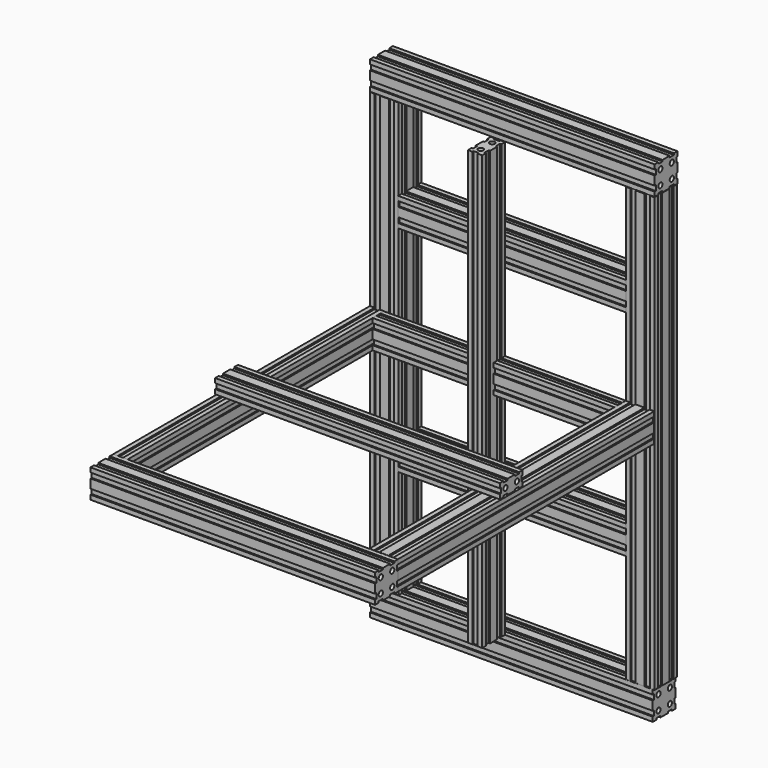
from build123d import *

# Parameters (mm, degrees)
F0_R           = 3.683
F1_DEPTH       = 450.088
F2_R           = 3.683
F3_DEPTH       = 400.05
F4_R           = 3.683
F5_DEPTH       = 450.85
F6_R           = 3.683
F7_DEPTH       = 339.598
F8_R           = 3.683
F9_DEPTH       = 304.8
F9_DEPTH_BACK  = 304.8
F10_R          = 3.683
F11_DEPTH      = 304.8
F11_DEPTH_BACK = 304.8
F12_R          = 3.683
F13_DEPTH      = 400.05
F14_R          = 3.683
F15_DEPTH      = 397.51
F16_R          = 3.683
F17_DEPTH      = 304.8
F17_DEPTH_BACK = 304.8
F18_R          = 3.683
F19_DEPTH      = 400.05
F20_R          = 3.683
F21_DEPTH      = 320.04
F22_R          = 3.683
F23_DEPTH      = 320.04


with BuildPart() as f1:
    # F0 (on Front) → F1 (new body)
    with BuildSketch(Plane.XZ):
        Polygon((-6.35, 18.034), (-13.716, 18.034), (-13.716, 20.066), (-20.066, 20.066), (-20.066, 13.716), (-18.034, 13.716), (-18.034, 6.35), (-20.066, 6.35), (-20.066, 0), (-20.066, -6.35), (-18.034, -6.35), (-18.034, -13.716), (-20.066, -13.716), (-20.066, -20.066), (-13.716, -20.066), (-13.716, -18.034), (-6.35, -18.034), (-6.35, -20.066), (0, -20.066), (6.35, -20.066), (6.35, -18.034), (13.716, -18.034), (13.716, -20.066), (20.066, -20.066), (20.066, -13.716), (18.034, -13.716), (18.034, -6.35), (20.066, -6.35), (20.066, 0), (20.066, 6.35), (18.034, 6.35), (18.034, 13.716), (20.066, 13.716), (20.066, 20.066), (13.716, 20.066), (13.716, 18.034), (6.35, 18.034), (6.35, 20.066), (0, 20.066), (-6.35, 20.066), align=None)
        with Locations((-10.033, -10.033)):
            Circle(F0_R, mode=Mode.SUBTRACT)
        with Locations((10.033, -10.033)):
            Circle(F0_R, mode=Mode.SUBTRACT)
        with Locations((-10.033, 10.033)):
            Circle(F0_R, mode=Mode.SUBTRACT)
        with Locations((10.033, 10.033)):
            Circle(F0_R, mode=Mode.SUBTRACT)
    extrude(amount=F1_DEPTH)


with BuildPart() as f3:
    # F2 (on face) → F3 (new body)
    with BuildSketch(Plane.YZ.offset(20.066)):
        Polygon((-476.706279, 17.926491), (-484.072279, 17.926491), (-484.072279, 19.958491), (-490.422279, 19.958491), (-490.422279, 13.608491), (-488.390279, 13.608491), (-488.390279, 6.242491), (-490.422279, 6.242491), (-490.422279, -0.107509), (-490.422279, -6.457509), (-488.390279, -6.457509), (-488.390279, -13.823509), (-490.422279, -13.823509), (-490.422279, -20.173509), (-484.072279, -20.173509), (-484.072279, -18.141509), (-476.706279, -18.141509), (-476.706279, -20.173509), (-470.356279, -20.173509), (-464.006279, -20.173509), (-464.006279, -18.141509), (-456.640279, -18.141509), (-456.640279, -20.173509), (-450.290279, -20.173509), (-450.290279, -13.823509), (-452.322279, -13.823509), (-452.322279, -6.457509), (-450.290279, -6.457509), (-450.290279, -0.107509), (-450.290279, 6.242491), (-452.322279, 6.242491), (-452.322279, 13.608491), (-450.290279, 13.608491), (-450.290279, 19.958491), (-456.640279, 19.958491), (-456.640279, 17.926491), (-464.006279, 17.926491), (-464.006279, 19.958491), (-470.356279, 19.958491), (-476.706279, 19.958491), align=None)
        with Locations((-480.389279, -10.140509)):
            Circle(F2_R, mode=Mode.SUBTRACT)
        with Locations((-460.323279, -10.140509)):
            Circle(F2_R, mode=Mode.SUBTRACT)
        with Locations((-480.389279, 9.925491)):
            Circle(F2_R, mode=Mode.SUBTRACT)
        with Locations((-460.323279, 9.925491)):
            Circle(F2_R, mode=Mode.SUBTRACT)
    extrude(amount=-F3_DEPTH)


with BuildPart() as f5:
    # F4 (on face) → F5 (new body)
    with BuildSketch(Plane(origin=(0, -450.290279, 0), x_dir=(-1, 0, 0), z_dir=(0, 1, 0))):
        Polygon((373.604226, 17.952326), (366.238226, 17.952326), (366.238226, 19.984326), (359.888226, 19.984326), (359.888226, 13.634326), (361.920226, 13.634326), (361.920226, 6.268326), (359.888226, 6.268326), (359.888226, 6.242491), (377.326638, 6.242491), (377.326638, 13.547446), (379.954226, 13.547446), (379.954226, 19.984326), (373.604226, 19.984326), align=None)
        with Locations((369.921226, 9.951326)):
            Circle(F4_R, mode=Mode.SUBTRACT)
        with BuildLine():
            Line((379.984, 6.242491), (377.326638, 6.242491))
            Line((377.326638, 6.242491), (359.888226, 6.242491))
            Line((359.888226, 6.242491), (359.888226, -0.081674))
            Line((359.888226, -0.081674), (359.888226, -6.431674))
            Line((359.888226, -6.431674), (361.920226, -6.431674))
            Line((361.920226, -6.431674), (361.920226, -6.457509))
            Line((361.920226, -6.457509), (369.485758, -6.457509))
            ThreePointArc((369.485758, -6.457509), (369.921226, -6.431674), (370.356694, -6.457509))
            Line((370.356694, -6.457509), (377.326638, -6.457509))
            Line((377.326638, -6.457509), (379.984, -6.457509))
            Line((379.984, -6.457509), (379.984, 6.242491))
        make_face()
        with BuildLine():
            Line((377.326638, -13.786256), (377.326638, -6.457509))
            Line((377.326638, -6.457509), (370.356694, -6.457509))
            ThreePointArc((370.356694, -6.457509), (372.675161, -7.669202), (373.604226, -10.114674))
            ThreePointArc((373.604226, -10.114674), (367.475754, -12.868609), (369.485758, -6.457509))
            Line((369.485758, -6.457509), (361.920226, -6.457509))
            Line((361.920226, -6.457509), (361.920226, -13.797674))
            Line((361.920226, -13.797674), (359.888226, -13.797674))
            Line((359.888226, -13.797674), (359.888226, -20.147674))
            Line((359.888226, -20.147674), (366.238226, -20.147674))
            Line((366.238226, -20.147674), (366.238226, -18.115674))
            Line((366.238226, -18.115674), (373.604226, -18.115674))
            Line((373.604226, -18.115674), (373.604226, -20.147674))
            Line((373.604226, -20.147674), (379.954226, -20.147674))
            Line((379.954226, -20.147674), (379.984, -13.786256))
            Line((379.984, -13.786256), (377.326638, -13.786256))
        make_face()
    extrude(amount=F5_DEPTH)


with BuildPart() as f7:
    # F6 (on face) → F7 (new body)
    with BuildSketch(Plane(origin=(-20.066, 0, 0), x_dir=(0, -1, 0), z_dir=(-1, 0, 0))):
        with BuildLine():
            Line((20.058718, 6.35), (2.394034, 6.35))
            Line((2.394034, 6.35), (0, 6.35))
            Line((0, 6.35), (0, -6.35))
            Line((0, -6.35), (2.394034, -6.35))
            Line((2.394034, -6.35), (9.003836, -6.35))
            ThreePointArc((9.003836, -6.35), (10.025718, -6.205396), (11.0476, -6.35))
            Line((11.0476, -6.35), (18.026718, -6.35))
            Line((18.026718, -6.35), (18.026718, -6.205396))
            Line((18.026718, -6.205396), (20.058718, -6.205396))
            Line((20.058718, -6.205396), (20.058718, 0.144604))
            Line((20.058718, 0.144604), (20.058718, 6.35))
        make_face()
        Polygon((6.342718, 20.210604), (-0.007282, 20.210604), (-0.007282, 13.860604), (2.394034, 13.860604), (2.394034, 6.35), (20.058718, 6.35), (20.058718, 6.494604), (18.026718, 6.494604), (18.026718, 13.860604), (20.058718, 13.860604), (20.058718, 20.210604), (13.708718, 20.210604), (13.708718, 18.178604), (6.342718, 18.178604), align=None)
        with Locations((10.025718, 10.177604)):
            Circle(F6_R, mode=Mode.SUBTRACT)
        with BuildLine():
            Line((9.003836, -6.35), (2.394034, -6.35))
            Line((2.394034, -6.35), (2.394034, -13.571396))
            Line((2.394034, -13.571396), (-0.007282, -13.571396))
            Line((-0.007282, -13.571396), (-0.007282, -19.921396))
            Line((-0.007282, -19.921396), (6.342718, -19.921396))
            Line((6.342718, -19.921396), (6.342718, -17.889396))
            Line((6.342718, -17.889396), (13.708718, -17.889396))
            Line((13.708718, -17.889396), (13.708718, -19.921396))
            Line((13.708718, -19.921396), (20.058718, -19.921396))
            Line((20.058718, -19.921396), (20.058718, -13.571396))
            Line((20.058718, -13.571396), (18.026718, -13.571396))
            Line((18.026718, -13.571396), (18.026718, -6.35))
            Line((18.026718, -6.35), (11.0476, -6.35))
            ThreePointArc((11.0476, -6.35), (12.969192, -7.6747), (13.708718, -9.888396))
            ThreePointArc((13.708718, -9.888396), (7.812022, -12.83187), (9.003836, -6.35))
        make_face()
    extrude(amount=F7_DEPTH)


with BuildPart() as f9:
    # F8 (on face) → F9 (new body, two sides)
    with BuildSketch(Plane(origin=(0, 0, -20.066), x_dir=(1, 0, 0), z_dir=(0, 0, -1))) as f9_sk:
        Polygon((-6.172723, -2.109748), (-13.538723, -2.109748), (-13.538723, -0.077748), (-19.888723, -0.077748), (-19.888723, -6.427748), (-17.856723, -6.427748), (-17.856723, -13.793748), (-19.888723, -13.793748), (-19.888723, -20.143748), (-19.888723, -26.493748), (-17.856723, -26.493748), (-17.856723, -33.859748), (-19.888723, -33.859748), (-19.888723, -40.209748), (-13.538723, -40.209748), (-13.538723, -38.177748), (-6.172723, -38.177748), (-6.172723, -40.209748), (0.177277, -40.209748), (6.527277, -40.209748), (6.527277, -38.177748), (13.893277, -38.177748), (13.893277, -40.209748), (20.243277, -40.209748), (20.243277, -33.859748), (18.211277, -33.859748), (18.211277, -26.493748), (20.243277, -26.493748), (20.243277, -20.143748), (20.243277, -13.793748), (18.211277, -13.793748), (18.211277, -6.427748), (20.243277, -6.427748), (20.243277, -0.077748), (13.893277, -0.077748), (13.893277, -2.109748), (6.527277, -2.109748), (6.527277, -0.077748), (0.177277, -0.077748), (-6.172723, -0.077748), align=None)
        with Locations((-9.855723, -30.176748)):
            Circle(F8_R, mode=Mode.SUBTRACT)
        with Locations((-9.855723, -10.110748)):
            Circle(F8_R, mode=Mode.SUBTRACT)
        with Locations((10.210277, -30.176748)):
            Circle(F8_R, mode=Mode.SUBTRACT)
        with Locations((10.210277, -10.110748)):
            Circle(F8_R, mode=Mode.SUBTRACT)
    extrude(amount=F9_DEPTH)
    extrude(f9_sk.sketch, amount=-F9_DEPTH_BACK)


with BuildPart() as f11:
    # F10 (on face) → F11 (new body, two sides)
    with BuildSketch(Plane(origin=(0, 0, -20.147674), x_dir=(1, 0, 0), z_dir=(0, 0, -1))) as f11_sk:
        Polygon((-366.280479, -2.748188), (-373.646479, -2.748188), (-373.646479, -0.716188), (-379.996479, -0.716188), (-379.996479, -7.066188), (-377.964479, -7.066188), (-377.964479, -14.432188), (-379.996479, -14.432188), (-379.996479, -20.782188), (-379.996479, -27.132188), (-377.964479, -27.132188), (-377.964479, -34.498188), (-379.996479, -34.498188), (-379.996479, -40.848188), (-373.646479, -40.848188), (-373.646479, -38.816188), (-366.280479, -38.816188), (-366.280479, -40.848188), (-359.930479, -40.848188), (-353.580479, -40.848188), (-353.580479, -38.816188), (-346.214479, -38.816188), (-346.214479, -40.848188), (-339.864479, -40.848188), (-339.864479, -34.498188), (-341.896479, -34.498188), (-341.896479, -27.132188), (-339.864479, -27.132188), (-339.864479, -20.782188), (-339.864479, -14.432188), (-341.896479, -14.432188), (-341.896479, -7.066188), (-339.864479, -7.066188), (-339.864479, -0.716188), (-346.214479, -0.716188), (-346.214479, -2.748188), (-353.580479, -2.748188), (-353.580479, -0.716188), (-359.930479, -0.716188), (-366.280479, -0.716188), align=None)
        with Locations((-369.963479, -30.815188)):
            Circle(F10_R, mode=Mode.SUBTRACT)
        with Locations((-369.963479, -10.749188)):
            Circle(F10_R, mode=Mode.SUBTRACT)
        with Locations((-349.897479, -30.815188)):
            Circle(F10_R, mode=Mode.SUBTRACT)
        with Locations((-349.897479, -10.749188)):
            Circle(F10_R, mode=Mode.SUBTRACT)
    extrude(amount=F11_DEPTH)
    extrude(f11_sk.sketch, amount=-F11_DEPTH_BACK)


with BuildPart() as f13:
    # F12 (on face) → F13 (new body)
    with BuildSketch(Plane(origin=(-379.996479, 0, 0), x_dir=(0, -1, 0), z_dir=(-1, 0, 0))):
        Polygon((-27.23115, 323.158051), (-34.59715, 323.158051), (-34.59715, 325.190051), (-40.94715, 325.190051), (-40.94715, 318.840051), (-38.91515, 318.840051), (-38.91515, 311.474051), (-40.94715, 311.474051), (-40.94715, 305.124051), (-40.94715, 298.774051), (-38.91515, 298.774051), (-38.91515, 291.408051), (-40.94715, 291.408051), (-40.94715, 285.058051), (-34.59715, 285.058051), (-34.59715, 287.090051), (-27.23115, 287.090051), (-27.23115, 285.058051), (-20.88115, 285.058051), (-14.53115, 285.058051), (-14.53115, 287.090051), (-7.16515, 287.090051), (-7.16515, 285.058051), (-0.81515, 285.058051), (-0.81515, 291.408051), (-2.84715, 291.408051), (-2.84715, 298.774051), (-0.81515, 298.774051), (-0.81515, 305.124051), (-0.81515, 311.474051), (-2.84715, 311.474051), (-2.84715, 318.840051), (-0.81515, 318.840051), (-0.81515, 325.190051), (-7.16515, 325.190051), (-7.16515, 323.158051), (-14.53115, 323.158051), (-14.53115, 325.190051), (-20.88115, 325.190051), (-27.23115, 325.190051), align=None)
        with Locations((-30.91415, 295.091051)):
            Circle(F12_R, mode=Mode.SUBTRACT)
        with Locations((-30.91415, 315.157051)):
            Circle(F12_R, mode=Mode.SUBTRACT)
        with Locations((-10.84815, 295.091051)):
            Circle(F12_R, mode=Mode.SUBTRACT)
        with Locations((-10.84815, 315.157051)):
            Circle(F12_R, mode=Mode.SUBTRACT)
    extrude(amount=-F13_DEPTH)


with BuildPart() as f15:
    # F14 (on face) → F15 (new body)
    with BuildSketch(Plane(origin=(-379.996479, 0, 0), x_dir=(0, -1, 0), z_dir=(-1, 0, 0))):
        Polygon((-26.998357, -327.287231), (-34.364357, -327.287231), (-34.364357, -325.255231), (-40.714357, -325.255231), (-40.714357, -331.605231), (-38.682357, -331.605231), (-38.682357, -338.971231), (-40.714357, -338.971231), (-40.714357, -345.321231), (-40.714357, -351.671231), (-38.682357, -351.671231), (-38.682357, -359.037231), (-40.714357, -359.037231), (-40.714357, -365.387231), (-34.364357, -365.387231), (-34.364357, -363.355231), (-26.998357, -363.355231), (-26.998357, -365.387231), (-20.648357, -365.387231), (-14.298357, -365.387231), (-14.298357, -363.355231), (-6.932357, -363.355231), (-6.932357, -365.387231), (-0.582357, -365.387231), (-0.582357, -359.037231), (-2.614357, -359.037231), (-2.614357, -351.671231), (-0.582357, -351.671231), (-0.582357, -345.321231), (-0.582357, -338.971231), (-2.614357, -338.971231), (-2.614357, -331.605231), (-0.582357, -331.605231), (-0.582357, -325.255231), (-6.932357, -325.255231), (-6.932357, -327.287231), (-14.298357, -327.287231), (-14.298357, -325.255231), (-20.648357, -325.255231), (-26.998357, -325.255231), align=None)
        with Locations((-30.681357, -355.354231)):
            Circle(F14_R, mode=Mode.SUBTRACT)
        with Locations((-30.681357, -335.288231)):
            Circle(F14_R, mode=Mode.SUBTRACT)
        with Locations((-10.615357, -355.354231)):
            Circle(F14_R, mode=Mode.SUBTRACT)
        with Locations((-10.615357, -335.288231)):
            Circle(F14_R, mode=Mode.SUBTRACT)
    extrude(amount=-F15_DEPTH)


with BuildPart() as f17:
    # F16 (on face) → F17 (new body, two sides)
    with BuildSketch(Plane(origin=(0, 0, -19.921396), x_dir=(1, 0, 0), z_dir=(0, 0, -1))) as f17_sk:
        Polygon((-199.659061, 38.1), (-203.342061, 38.1), (-203.342061, 40.132), (-209.692061, 40.132), (-209.692061, 33.782), (-207.660061, 33.782), (-207.660061, 26.416), (-209.692061, 26.416), (-209.692061, 20.066), (-209.692061, 20.058718), (-189.626061, 20.058718), (-189.626061, 20.066), (-189.626061, 26.416), (-191.658061, 26.416), (-191.658061, 33.782), (-189.626061, 33.782), (-189.626061, 40.132), (-195.976061, 40.132), (-195.976061, 38.1), align=None)
        with Locations((-199.659061, 30.099)):
            Circle(F16_R, mode=Mode.SUBTRACT)
        with BuildLine():
            Line((-189.626061, 20.058718), (-209.692061, 20.058718))
            Line((-209.692061, 20.058718), (-209.692061, 13.716))
            Line((-209.692061, 13.716), (-207.660061, 13.716))
            Line((-207.660061, 13.716), (-207.660061, 13.708718))
            Line((-207.660061, 13.708718), (-199.89055, 13.708718))
            ThreePointArc((-199.89055, 13.708718), (-199.659061, 13.716), (-199.427572, 13.708718))
            Line((-199.427572, 13.708718), (-191.658061, 13.708718))
            Line((-191.658061, 13.708718), (-191.658061, 13.716))
            Line((-191.658061, 13.716), (-189.626061, 13.716))
            Line((-189.626061, 13.716), (-189.626061, 20.058718))
        make_face()
        with BuildLine():
            Line((-199.89055, 13.708718), (-207.660061, 13.708718))
            Line((-207.660061, 13.708718), (-207.660061, 6.35))
            Line((-207.660061, 6.35), (-209.692061, 6.35))
            Line((-209.692061, 6.35), (-209.692061, 0))
            Line((-209.692061, 0), (-203.342061, 0))
            Line((-203.342061, 0), (-203.342061, 2.032))
            Line((-203.342061, 2.032), (-195.976061, 2.032))
            Line((-195.976061, 2.032), (-195.976061, 0))
            Line((-195.976061, 0), (-189.626061, 0))
            Line((-189.626061, 0), (-189.626061, 6.35))
            Line((-189.626061, 6.35), (-191.658061, 6.35))
            Line((-191.658061, 6.35), (-191.658061, 13.708718))
            Line((-191.658061, 13.708718), (-199.427572, 13.708718))
            ThreePointArc((-199.427572, 13.708718), (-196.97419, 12.554102), (-195.976061, 10.033))
            ThreePointArc((-195.976061, 10.033), (-202.180163, 7.348129), (-199.89055, 13.708718))
        make_face()
    extrude(amount=F17_DEPTH)
    extrude(f17_sk.sketch, amount=-F17_DEPTH_BACK)


with BuildPart() as f19:
    # F18 (on face) → F19 (new body)
    with BuildSketch(Plane.YZ.offset(20.066)):
        Polygon((-265.011828, 41.402), (-271.361828, 41.402), (-271.361828, 35.052), (-269.329828, 35.052), (-269.329828, 31.369), (-269.329828, 27.686), (-271.361828, 27.686), (-271.361828, 21.336), (-265.011828, 21.336), (-265.011828, 23.368), (-257.645828, 23.368), (-257.645828, 21.336), (-251.295828, 21.336), (-244.945828, 21.336), (-244.945828, 23.368), (-237.579828, 23.368), (-237.579828, 21.336), (-231.229828, 21.336), (-231.229828, 27.686), (-233.261828, 27.686), (-233.261828, 35.052), (-231.229828, 35.052), (-231.229828, 41.402), (-237.579828, 41.402), (-237.579828, 39.37), (-244.945828, 39.37), (-244.945828, 41.402), (-251.295828, 41.402), (-257.645828, 41.402), (-257.645828, 39.37), (-265.011828, 39.37), align=None)
        with Locations((-261.328828, 31.369)):
            Circle(F18_R, mode=Mode.SUBTRACT)
        with Locations((-241.262828, 31.369)):
            Circle(F18_R, mode=Mode.SUBTRACT)
    extrude(amount=-F19_DEPTH)


with BuildPart() as f21:
    # F20 (on face) → F21 (new body)
    with BuildSketch(Plane.YZ.offset(-339.864479)):
        Polygon((13.716, -133.976061), (6.35, -133.976061), (6.35, -131.944061), (0, -131.944061), (0, -138.294061), (2.032, -138.294061), (2.032, -145.660061), (0, -145.660061), (0, -152.010061), (0, -158.360061), (2.032, -158.360061), (2.032, -165.726061), (0, -165.726061), (0, -172.076061), (6.35, -172.076061), (6.35, -170.044061), (13.716, -170.044061), (13.716, -172.076061), (20.066, -172.076061), (26.416, -172.076061), (26.416, -170.044061), (33.782, -170.044061), (33.782, -172.076061), (40.132, -172.076061), (40.132, -165.726061), (38.1, -165.726061), (38.1, -158.360061), (40.132, -158.360061), (40.132, -152.010061), (40.132, -145.660061), (38.1, -145.660061), (38.1, -138.294061), (40.132, -138.294061), (40.132, -131.944061), (33.782, -131.944061), (33.782, -133.976061), (26.416, -133.976061), (26.416, -131.944061), (20.066, -131.944061), (13.716, -131.944061), align=None)
        with Locations((10.033, -162.043061)):
            Circle(F20_R, mode=Mode.SUBTRACT)
        with Locations((30.099, -162.043061)):
            Circle(F20_R, mode=Mode.SUBTRACT)
        with Locations((10.033, -141.977061)):
            Circle(F20_R, mode=Mode.SUBTRACT)
        with Locations((30.099, -141.977061)):
            Circle(F20_R, mode=Mode.SUBTRACT)
    extrude(amount=F21_DEPTH)


with BuildPart() as f23:
    # F22 (on face) → F23 (new body)
    with BuildSketch(Plane.YZ.offset(-339.864479)):
        Polygon((13.716, 167.59127), (6.35, 167.59127), (6.35, 169.62327), (0, 169.62327), (0, 163.27327), (2.032, 163.27327), (2.032, 155.90727), (0, 155.90727), (0, 149.55727), (0, 143.20727), (2.032, 143.20727), (2.032, 135.84127), (0, 135.84127), (0, 129.49127), (6.35, 129.49127), (6.35, 131.52327), (13.716, 131.52327), (13.716, 129.49127), (20.066, 129.49127), (26.416, 129.49127), (26.416, 131.52327), (33.782, 131.52327), (33.782, 129.49127), (40.132, 129.49127), (40.132, 135.84127), (38.1, 135.84127), (38.1, 143.20727), (40.132, 143.20727), (40.132, 149.55727), (40.132, 155.90727), (38.1, 155.90727), (38.1, 163.27327), (40.132, 163.27327), (40.132, 169.62327), (33.782, 169.62327), (33.782, 167.59127), (26.416, 167.59127), (26.416, 169.62327), (20.066, 169.62327), (13.716, 169.62327), align=None)
        with Locations((10.033, 139.52427)):
            Circle(F22_R, mode=Mode.SUBTRACT)
        with Locations((30.099, 139.52427)):
            Circle(F22_R, mode=Mode.SUBTRACT)
        with Locations((10.033, 159.59027)):
            Circle(F22_R, mode=Mode.SUBTRACT)
        with Locations((30.099, 159.59027)):
            Circle(F22_R, mode=Mode.SUBTRACT)
    extrude(amount=F23_DEPTH)


solid = Compound([f1.part, f3.part, f5.part, f7.part, f9.part, f11.part, f13.part, f15.part, f17.part, f19.part, f21.part, f23.part])
